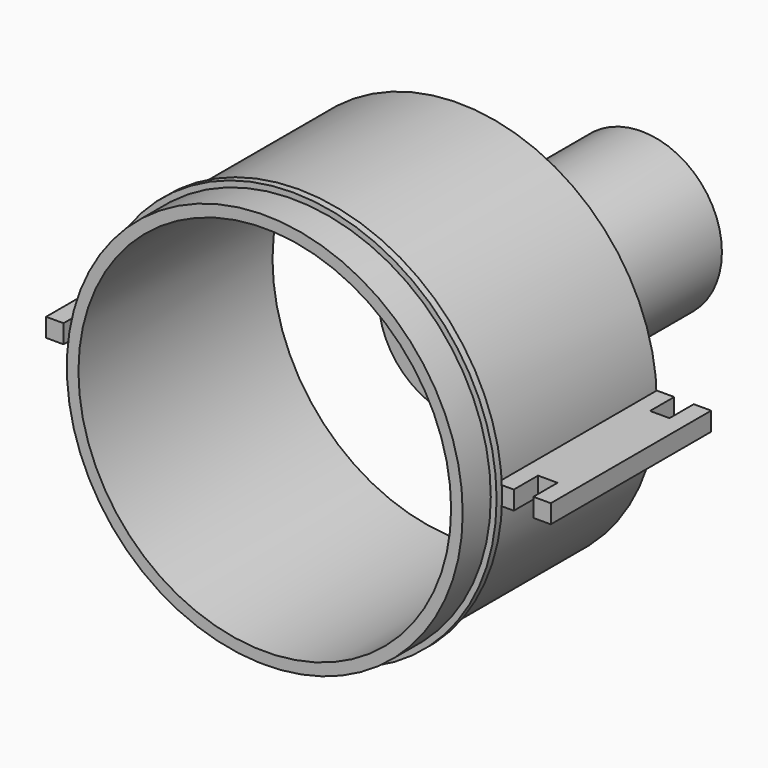
from build123d import *

# Parameters (mm, degrees)
F0_R      = 34.07
F0_R_2    = 32.07
F3_DEPTH  = 7.24
F2_R      = 35.07
F2_R_2    = 32.07
F4_DEPTH  = 1.2
F6_R      = 34.07
F6_R_2    = 32.07
F7_DEPTH  = 34.51
F9_R      = 13.815
F10_DEPTH = 39.33
F12_DEPTH = 1.6


with BuildPart() as f3:
    # F0 (on Front) → F3 (new body, through all)
    with BuildSketch(Plane.XZ):
        Circle(F0_R)
        Circle(F0_R_2, mode=Mode.SUBTRACT)
    extrude(amount=-F3_DEPTH)

    # F2 (on offset) → F4 (join)
    with BuildSketch(Plane.XZ.offset(-7.24)):
        Circle(F2_R)
        Circle(F2_R_2, mode=Mode.SUBTRACT)
    extrude(amount=F4_DEPTH)

    # F6 (on offset) → F7 (join)
    with BuildSketch(Plane.XZ.offset(-7.24)):
        Circle(F6_R)
        Circle(F6_R_2, mode=Mode.SUBTRACT)
    extrude(amount=-F7_DEPTH)


with BuildPart() as f10:
    # F9 (on offset) → F10 (new body)
    with BuildSketch(Plane.XZ.offset(-41.75)):
        Circle(F9_R)
    extrude(amount=-F10_DEPTH)


with BuildPart() as f12:
    # F11 (on Top) → F12 (new body, symmetric)
    with BuildSketch(Plane.XY):
        Polygon((-34.07, 7.24), (-34.07, 41.75), (-37.07, 41.75), (-37.07, 36.54), (-40.43, 36.54), (-40.43, 41.75), (-43.43, 41.75), (-43.43, 7.24), (-40.43, 7.24), (-40.43, 12.45), (-37.07, 12.45), (-37.07, 7.24), align=None)
    extrude(amount=F12_DEPTH, both=True)


with BuildPart() as f12b:
    # F11 (on Top) → F12, piece 2 (new body, symmetric)
    with BuildSketch(Plane.XY):
        Polygon((34.07, 41.75), (34.07, 7.24), (35.07, 7.24), (37.07, 7.24), (37.07, 12.45), (40.43, 12.45), (40.43, 7.24), (43.43, 7.24), (43.43, 41.75), (40.43, 41.75), (40.43, 36.54), (37.07, 36.54), (37.07, 41.75), align=None)
    extrude(amount=F12_DEPTH, both=True)


solid = Compound([f3.part, f10.part, f12.part, f12b.part])
